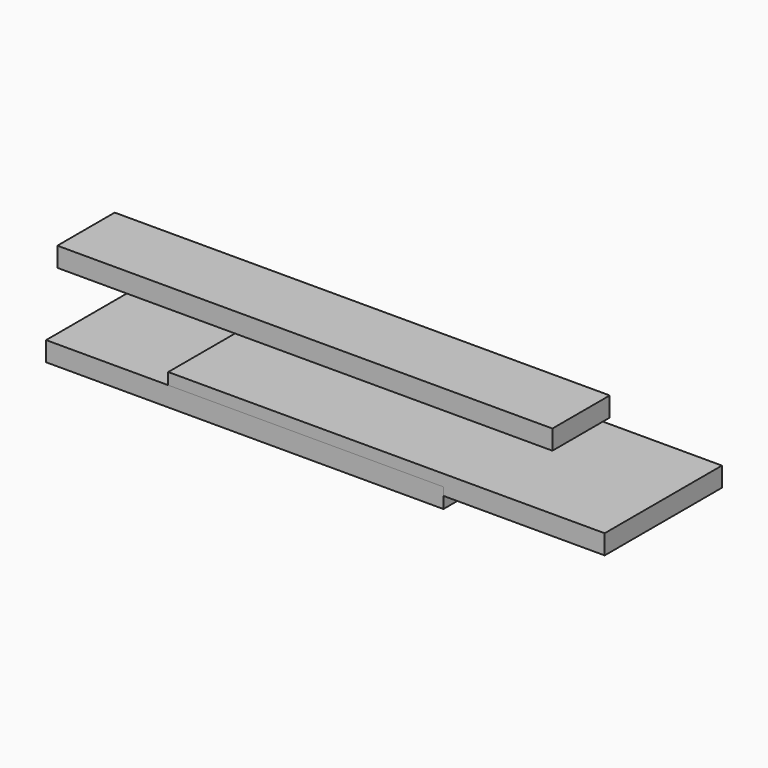
from build123d import *

# Parameters (mm, degrees)
F0_W      = 965.2
F0_H      = 38.1
F1_DEPTH  = 139.7
F10_W     = 723.9
F10_H     = 38.1
F11_DEPTH = 88.9
F12_W     = 850.9
F12_H     = 38.1
F13_DEPTH = 285.75
F14_W     = 774.7
F14_H     = 38.1
F15_DEPTH = 285.75
F16_W     = 285.75
F16_H     = 38.1
F17_DEPTH = 88.9
F18_W     = 673.1
F18_H     = 38.1
F19_DEPTH = 38.1
F21_DEPTH = 38.1
F25_DEPTH = 38.1


with BuildPart() as f1:
    # F0 (on Front) → F1 (new body)
    with BuildSketch(Plane.XZ):
        with Locations((0, 19.05)):
            Rectangle(F0_W, F0_H)
    extrude(amount=F1_DEPTH)


with BuildPart() as f2_1:
    # F2: copy of F1
    add(f1.part)


with BuildPart() as f4_1:
    # F4: copy of F1
    add(f1.part)


with BuildPart() as f5_1:
    # F5: copy of F4_1
    add(f4_1.part)


with BuildPart() as f6_1:
    # F6: copy of F5_1
    add(f5_1.part)


with BuildPart() as f11:
    # F10 (on Front) → F11 (new body)
    with BuildSketch(Plane.XZ):
        with Locations((6.767765, -54.564733)):
            Rectangle(F10_W, F10_H)
    extrude(amount=F11_DEPTH)


with BuildPart() as f13:
    # F12 (on Front) → F13 (new body)
    with BuildSketch(Plane.XZ):
        with Locations((275.874885, -30.183716)):
            Rectangle(F12_W, F12_H)
    extrude(amount=F13_DEPTH)


with BuildPart() as f15:
    # F14 (on Front) → F15 (new body)
    with BuildSketch(Plane.XZ):
        with Locations((-0.409301, -52.799448)):
            Rectangle(F14_W, F14_H)
    extrude(amount=F15_DEPTH)


with BuildPart() as f17:
    # F16 (on Front) → F17 (new body)
    with BuildSketch(Plane.XZ):
        with Locations((-21.693762, -22.723508)):
            Rectangle(F16_W, F16_H)
    extrude(amount=F17_DEPTH)


with BuildPart() as f19:
    # F18 (on Front) → F19 (new body)
    with BuildSketch(Plane.XZ):
        with Locations((29.880106, -47.766945)):
            Rectangle(F18_W, F18_H)
    extrude(amount=F19_DEPTH)


with BuildPart() as f21:
    # F20 (on Front) → F21 (new body)
    with BuildSketch(Plane.XZ):
        Polygon((0, 27.952793), (-109.985226, -35.547207), (114.608608, -35.547207), (151.27035, 27.952793), align=None)
    extrude(amount=F21_DEPTH)


with BuildPart() as f22_1:
    # F22: copy of F21
    add(f21.part)


with BuildPart() as f25:
    # F24 (on Front) → F25 (new body)
    with BuildSketch(Plane.XZ):
        Polygon((-124.423885, -115.936463), (337.090889, -115.936463), (227.105663, -52.436463), (-234.409111, -52.436463), align=None)
    extrude(amount=F25_DEPTH)


solid = Compound([f1.part, f11.part, f13.part, f15.part, f17.part, f19.part, f22_1.part, f25.part])
